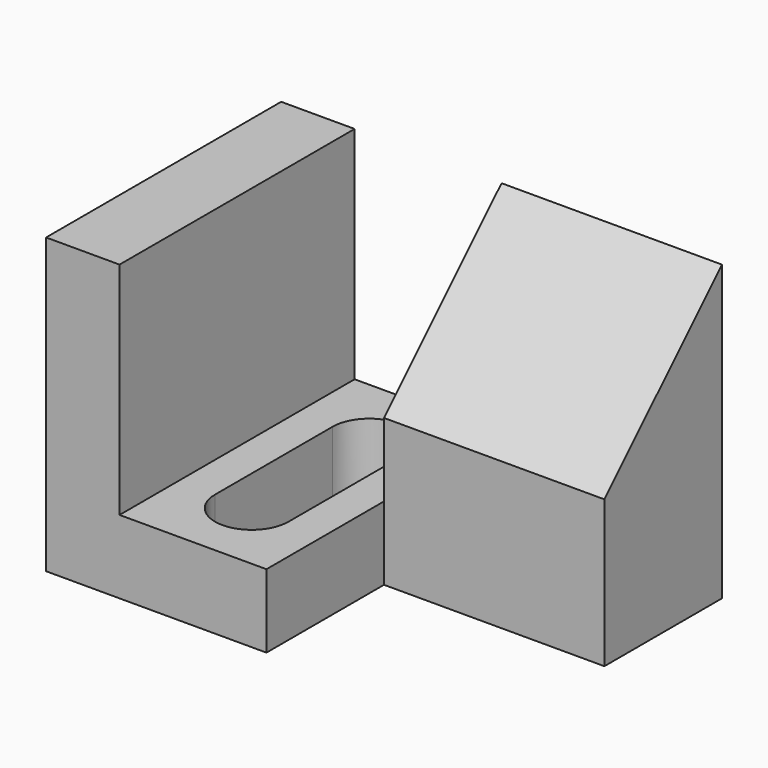
from build123d import *

# Parameters (mm, degrees)
F0_W     = 38.1
F0_H     = 25.4
F1_DEPTH = 25.4
F2_W     = 12.7
F2_H     = 25.4
F3_DEPTH = 19.05
F5_DEPTH = 25.4
F7_DEPTH = 19.05


with BuildPart() as f1:
    # F0 (on Front) → F1 (new body)
    with BuildSketch(Plane.XZ):
        with Locations((19.05, 12.7)):
            Rectangle(F0_W, F0_H)
    extrude(amount=-F1_DEPTH)

    # F2 (on face) → F3 (cut)
    with BuildSketch(Plane.XY.offset(25.4)):
        with Locations((12.7, 12.7)):
            Rectangle(F2_W, F2_H)
    extrude(amount=-F3_DEPTH, mode=Mode.SUBTRACT)

    # F4 (on face) → F5 (cut)
    with BuildSketch(Plane.XY.offset(6.35)):
        with BuildLine():
            ThreePointArc((15.875, 19.05), (14.945064, 21.295064), (12.7, 22.225))
            ThreePointArc((12.7, 22.225), (10.454936, 21.295064), (9.525, 19.05))
            Line((9.525, 19.05), (9.525, 6.35))
            ThreePointArc((9.525, 6.35), (12.7, 3.175), (15.875, 6.35))
            Line((15.875, 6.35), (15.875, 19.05))
        make_face()
    extrude(amount=-F5_DEPTH, mode=Mode.SUBTRACT)

    # F6 (on face) → F7 (cut)
    with BuildSketch(Plane.YZ.offset(38.1)):
        Polygon((0, 25.4), (0, 0), (12.7, 0), (12.7, 12.7), (25.4, 25.4), align=None)
    extrude(amount=-F7_DEPTH, mode=Mode.SUBTRACT)


solid = f1.part
